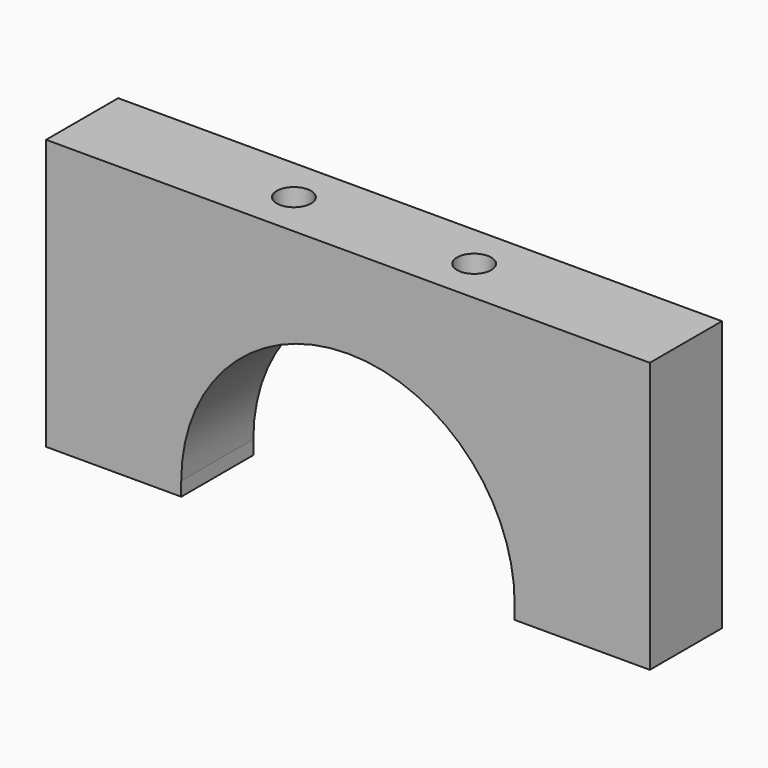
from build123d import *

# Parameters (mm, degrees)
SKETCH_W        = 67
SKETCH_H        = 10
PAD_DEPTH       = 30
SKETCH001_W     = 37
SKETCH001_H     = 10
POCKET_DEPTH    = 20
FILLET_R        = 18.45
SKETCH002_R     = 3
POCKET001_DEPTH = 24
SKETCH003_R     = 1.9
POCKET002_DEPTH = 6


with BuildPart() as part:
    # Sketch → Pad (new body)
    with BuildSketch(Plane.XY):
        Rectangle(SKETCH_W, SKETCH_H)
    extrude(amount=PAD_DEPTH)

    # Sketch001 (on Face5 of Pad) → Pocket (cut)
    with BuildSketch(Plane(origin=(0, 0, 0), x_dir=(1, 0, 0), z_dir=(0, 0, -1))):
        Rectangle(SKETCH001_W, SKETCH001_H)
    extrude(amount=-POCKET_DEPTH, mode=Mode.SUBTRACT)

    # Fillet
    fillet_edges = [part.edges().sort_by_distance(p)[0] for p in [
        (-18.5, 0, 20),
        (18.5, 0, 20),
    ]]
    fillet(fillet_edges, radius=FILLET_R)

    # Sketch002 (on Face4 of Fillet) → Pocket001 (cut)
    with BuildSketch(Plane(origin=(0, 0, 0), x_dir=(1, 0, 0), z_dir=(0, 0, -1))):
        with Locations((-10, 0)):
            Circle(SKETCH002_R)
        with Locations((10, 0)):
            Circle(SKETCH002_R)
    extrude(amount=-POCKET001_DEPTH, mode=Mode.SUBTRACT)

    # Sketch003 (on Face8 of Pocket001) → Pocket002 (cut)
    with BuildSketch(Plane.XY.offset(30)):
        with Locations((-10, 0)):
            Circle(SKETCH003_R)
        with Locations((10, 0)):
            Circle(SKETCH003_R)
    extrude(amount=-POCKET002_DEPTH, mode=Mode.SUBTRACT)


solid = part.part
